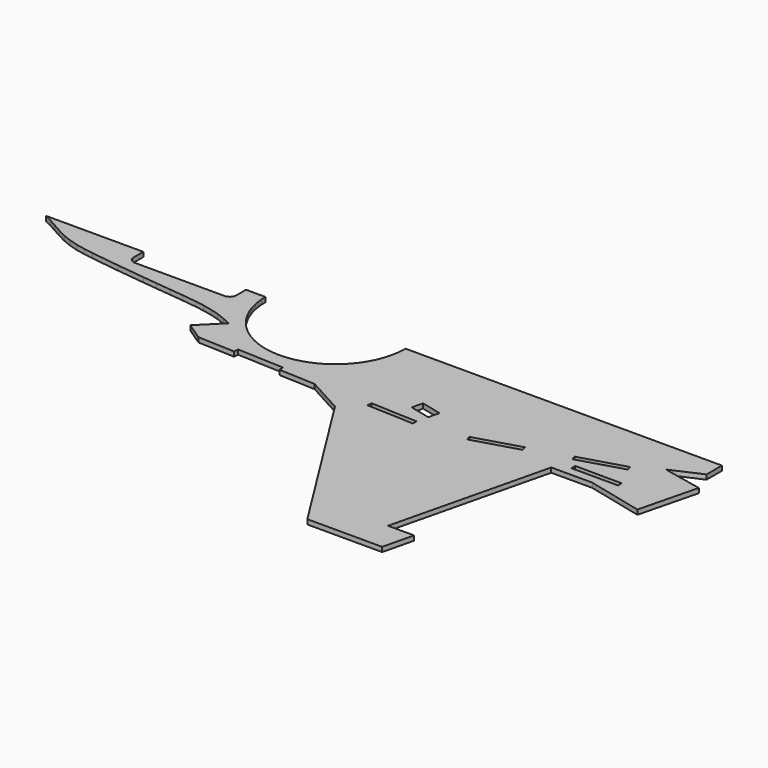
from build123d import *

# Parameters (mm, degrees)
PAD_DEPTH = 5


with BuildPart() as part:
    # Sketch → Pad (new body)
    with BuildSketch(Plane.XY):
        with BuildLine():
            add(Edge.make_bspline(
                [(346.228712, -134.31905), (346.087601, -135.694884)],
                knots=[0, 0, 3.920459, 3.920459], degree=1))
            add(Edge.make_bspline(
                [(346.087601, -135.694884), (345.664268, -137.000161)],
                knots=[0, 0, 3.88973, 3.88973], degree=1))
            add(Edge.make_bspline(
                [(345.664268, -137.000161), (345.029268, -138.199606)],
                knots=[0, 0, 3.847077, 3.847077], degree=1))
            add(Edge.make_bspline(
                [(345.029268, -138.199606), (344.147324, -139.257939)],
                knots=[0, 0, 3.905125, 3.905125], degree=1))
            add(Edge.make_bspline(
                [(344.147324, -139.257939), (343.08899, -140.139884)],
                knots=[0, 0, 3.905125, 3.905125], degree=1))
            add(Edge.make_bspline(
                [(343.08899, -140.139884), (341.889546, -140.774884)],
                knots=[0, 0, 3.847077, 3.847077], degree=1))
            add(Edge.make_bspline(
                [(341.889546, -140.774884), (340.584268, -141.162939)],
                knots=[0, 0, 3.860052, 3.860052], degree=1))
            add(Edge.make_bspline(
                [(340.584268, -141.162939), (339.208435, -141.30405)],
                knots=[0, 0, 3.920459, 3.920459], degree=1))
            add(Edge.make_bspline(
                [(243.217604, -141.30405), (339.208435, -141.30405)],
                knots=[0, 0, 272.1, 272.1], degree=1))
            add(Edge.make_bspline(
                [(243.217604, -141.30405), (241.84177, -141.162939)],
                knots=[0, 0, 3.920459, 3.920459], degree=1))
            add(Edge.make_bspline(
                [(241.84177, -141.162939), (240.536493, -140.774884)],
                knots=[0, 0, 3.860052, 3.860052], degree=1))
            add(Edge.make_bspline(
                [(240.536493, -140.774884), (239.337048, -140.139884)],
                knots=[0, 0, 3.847077, 3.847077], degree=1))
            add(Edge.make_bspline(
                [(239.337048, -140.139884), (238.278715, -139.257939)],
                knots=[0, 0, 3.905125, 3.905125], degree=1))
            add(Edge.make_bspline(
                [(238.278715, -139.257939), (237.39677, -138.199606)],
                knots=[0, 0, 3.905125, 3.905125], degree=1))
            add(Edge.make_bspline(
                [(237.39677, -138.199606), (236.76177, -137.000161)],
                knots=[0, 0, 3.847077, 3.847077], degree=1))
            add(Edge.make_bspline(
                [(236.76177, -137.000161), (236.338437, -135.694884)],
                knots=[0, 0, 3.88973, 3.88973], degree=1))
            add(Edge.make_bspline(
                [(236.338437, -135.694884), (236.197326, -134.31905)],
                knots=[0, 0, 3.920459, 3.920459], degree=1))
            add(Edge.make_bspline(
                [(236.197326, -121.301551), (236.197326, -134.31905)],
                knots=[0, 0, 36.9, 36.9], degree=1))
            add(Edge.make_bspline(
                [(132.057328, -121.301551), (236.197326, -121.301551)],
                knots=[0, 0, 295.2, 295.2], degree=1))
            add(Edge.make_bspline(
                [(132.057328, -121.301551), (140.735661, -125.711273)],
                knots=[0, 0, 27.593659, 27.593659], degree=1))
            add(Edge.make_bspline(
                [(140.735661, -125.711273), (149.272883, -130.544328)],
                knots=[0, 0, 27.808812, 27.808812], degree=1))
            add(Edge.make_bspline(
                [(149.272883, -130.544328), (157.880661, -135.377384)],
                knots=[0, 0, 27.983031, 27.983031], degree=1))
            add(Edge.make_bspline(
                [(157.880661, -135.377384), (166.62955, -139.787106)],
                knots=[0, 0, 27.772108, 27.772108], degree=1))
            add(Edge.make_bspline(
                [(166.62955, -139.787106), (175.660661, -143.385439)],
                knots=[0, 0, 27.557213, 27.557213], degree=1))
            add(Edge.make_bspline(
                [(175.660661, -143.385439), (185.044549, -146.101828)],
                knots=[0, 0, 27.692057, 27.692057], degree=1))
            add(Edge.make_bspline(
                [(185.044549, -146.101828), (194.640105, -148.077383)],
                knots=[0, 0, 27.770488, 27.770488], degree=1))
            add(Edge.make_bspline(
                [(194.640105, -148.077383), (204.376771, -149.629606)],
                knots=[0, 0, 27.948524, 27.948524], degree=1))
            add(Edge.make_bspline(
                [(204.376771, -149.629606), (234.962604, -153.651272)],
                knots=[0, 0, 87.446269, 87.446269], degree=1))
            add(Edge.make_bspline(
                [(234.962604, -153.651272), (265.442603, -157.249605)],
                knots=[0, 0, 87, 87], degree=1))
            add(Edge.make_bspline(
                [(265.442603, -157.249605), (280.682603, -158.907661)],
                knots=[0, 0, 43.454919, 43.454919], degree=1))
            add(Edge.make_bspline(
                [(280.682603, -158.907661), (295.993158, -160.530439)],
                knots=[0, 0, 43.643098, 43.643098], degree=1))
            add(Edge.make_bspline(
                [(295.993158, -160.530439), (311.338991, -162.153216)],
                knots=[0, 0, 43.742542, 43.742542], degree=1))
            add(Edge.make_bspline(
                [(311.338991, -162.153216), (326.614268, -164.058216)],
                knots=[0, 0, 43.635421, 43.635421], degree=1))
            add(Edge.make_bspline(
                [(326.614268, -164.058216), (336.139268, -165.645716)],
                knots=[0, 0, 27.372431, 27.372431], degree=1))
            add(Edge.make_bspline(
                [(336.139268, -165.645716), (345.558435, -167.65655)],
                knots=[0, 0, 27.301648, 27.301648], degree=1))
            add(Edge.make_bspline(
                [(345.558435, -167.65655), (354.83649, -170.302383)],
                knots=[0, 0, 27.348492, 27.348492], degree=1))
            add(Edge.make_bspline(
                [(354.83649, -170.302383), (363.867601, -173.68905)],
                knots=[0, 0, 27.340812, 27.340812], degree=1))
            add(Edge.make_bspline(
                [(363.867601, -173.68905), (372.722323, -177.922383)],
                knots=[0, 0, 27.821035, 27.821035], degree=1))
            add(Edge.make_bspline(
                [(372.722323, -177.922383), (350.038712, -200.605993)],
                knots=[0, 0, 90.933932, 90.933932], degree=1))
            add(Edge.make_bspline(
                [(350.038712, -200.605993), (368.735934, -213.20016)],
                knots=[0, 0, 63.902191, 63.902191], degree=1))
            add(Edge.make_bspline(
                [(368.735934, -213.20016), (408.3176, -214.893493)],
                knots=[0, 0, 112.302627, 112.302627], degree=1))
            add(Edge.make_bspline(
                [(408.529267, -209.884049), (408.3176, -214.893493)],
                knots=[0, 0, 14.21267, 14.21267], degree=1))
            add(Edge.make_bspline(
                [(458.482599, -212.035993), (408.529267, -209.884049)],
                knots=[0, 0, 141.73133, 141.73133], degree=1))
            add(Edge.make_bspline(
                [(458.482599, -217.01016), (458.482599, -212.035993)],
                knots=[0, 0, 14.1, 14.1], degree=1))
            add(Edge.make_bspline(
                [(458.482599, -217.01016), (497.605654, -218.703493)],
                knots=[0, 0, 111.003829, 111.003829], degree=1))
            add(Edge.make_bspline(
                [(497.605654, -218.703493), (536.411208, -239.905437)],
                knots=[0, 0, 125.347557, 125.347557], degree=1))
            add(Edge.make_bspline(
                [(536.411208, -239.905437), (645.948706, -413.860155)],
                knots=[0, 0, 582.715934, 582.715934], degree=1))
            add(Edge.make_bspline(
                [(645.948706, -413.860155), (726.099815, -413.860155)],
                knots=[0, 0, 227.2, 227.2], degree=1))
            add(Edge.make_bspline(
                [(726.099815, -413.860155), (734.072593, -380.981267)],
                knots=[0, 0, 95.900991, 95.900991], degree=1))
            add(Edge.make_bspline(
                [(706.062038, -380.981267), (734.072593, -380.981267)],
                knots=[0, 0, 79.4, 79.4], degree=1))
            add(Edge.make_bspline(
                [(746.737315, -213.20016), (706.062038, -380.981267)],
                knots=[0, 0, 489.376593, 489.376593], degree=1))
            add(Edge.make_bspline(
                [(746.737315, -213.20016), (790.728703, -213.20016)],
                knots=[0, 0, 124.7, 124.7], degree=1))
            add(Edge.make_bspline(
                [(790.728703, -213.20016), (850.630368, -227.699326)],
                knots=[0, 0, 174.70332, 174.70332], degree=1))
            add(Edge.make_bspline(
                [(850.630368, -227.699326), (866.293701, -165.081272)],
                knots=[0, 0, 182.968877, 182.968877], degree=1))
            add(Edge.make_bspline(
                [(866.293701, -165.081272), (824.030924, -156.191272)],
                knots=[0, 0, 122.42173, 122.42173], degree=1))
            add(Edge.make_bspline(
                [(824.030924, -156.191272), (856.063146, -141.903772)],
                knots=[0, 0, 99.422784, 99.422784], degree=1))
            add(Edge.make_bspline(
                [(856.063146, -141.903772), (856.063146, -121.301551)],
                knots=[0, 0, 58.4, 58.4], degree=1))
            add(Edge.make_bspline(
                [(517.078986, -121.301551), (856.063146, -121.301551)],
                knots=[0, 0, 960.9, 960.9], degree=1))
            add(Edge.make_bspline(
                [(516.902598, -126.557939), (517.078986, -121.301551)],
                knots=[0, 0, 14.908387, 14.908387], degree=1))
            add(Edge.make_bspline(
                [(516.338153, -131.743773), (516.902598, -126.557939)],
                knots=[0, 0, 14.786818, 14.786818], degree=1))
            add(Edge.make_bspline(
                [(515.420931, -136.894328), (516.338153, -131.743773)],
                knots=[0, 0, 14.8297, 14.8297], degree=1))
            add(Edge.make_bspline(
                [(514.150931, -141.974328), (515.420931, -136.894328)],
                knots=[0, 0, 14.84318, 14.84318], degree=1))
            add(Edge.make_bspline(
                [(512.563431, -146.948495), (514.150931, -141.974328)],
                knots=[0, 0, 14.800676, 14.800676], degree=1))
            add(Edge.make_bspline(
                [(510.587875, -151.816828), (512.563431, -146.948495)],
                knots=[0, 0, 14.892951, 14.892951], degree=1))
            add(Edge.make_bspline(
                [(508.29482, -156.508772), (510.587875, -151.816828)],
                knots=[0, 0, 14.803378, 14.803378], degree=1))
            add(Edge.make_bspline(
                [(505.684264, -161.059605), (508.29482, -156.508772)],
                knots=[0, 0, 14.871785, 14.871785], degree=1))
            add(Edge.make_bspline(
                [(502.756209, -165.398772), (505.684264, -161.059605)],
                knots=[0, 0, 14.838464, 14.838464], degree=1))
            add(Edge.make_bspline(
                [(499.510653, -169.526272), (502.756209, -165.398772)],
                knots=[0, 0, 14.883884, 14.883884], degree=1))
            add(Edge.make_bspline(
                [(496.018154, -173.406827), (499.510653, -169.526272)],
                knots=[0, 0, 14.798986, 14.798986], degree=1))
            add(Edge.make_bspline(
                [(492.243431, -177.040438), (496.018154, -173.406827)],
                knots=[0, 0, 14.851936, 14.851936], degree=1))
            add(Edge.make_bspline(
                [(488.257043, -180.427105), (492.243431, -177.040438)],
                knots=[0, 0, 14.82734, 14.82734], degree=1))
            add(Edge.make_bspline(
                [(484.023709, -183.496272), (488.257043, -180.427105)],
                knots=[0, 0, 14.821943, 14.821943], degree=1))
            add(Edge.make_bspline(
                [(479.578709, -186.283216), (484.023709, -183.496272)],
                knots=[0, 0, 14.871785, 14.871785], degree=1))
            add(Edge.make_bspline(
                [(474.957321, -188.717383), (479.578709, -186.283216)],
                knots=[0, 0, 14.80608, 14.80608], degree=1))
            add(Edge.make_bspline(
                [(470.159543, -190.869327), (474.957321, -188.717383)],
                knots=[0, 0, 14.905368, 14.905368], degree=1))
            add(Edge.make_bspline(
                [(465.255932, -192.633216), (470.159543, -190.869327)],
                knots=[0, 0, 14.771933, 14.771933], degree=1))
            add(Edge.make_bspline(
                [(460.21121, -194.079605), (465.255932, -192.633216)],
                knots=[0, 0, 14.876155, 14.876155], degree=1))
            add(Edge.make_bspline(
                [(455.095932, -195.173216), (460.21121, -194.079605)],
                knots=[0, 0, 14.827677, 14.827677], degree=1))
            add(Edge.make_bspline(
                [(449.910099, -195.914049), (455.095932, -195.173216)],
                knots=[0, 0, 14.849242, 14.849242], degree=1))
            add(Edge.make_bspline(
                [(444.688988, -196.266827), (449.910099, -195.914049)],
                knots=[0, 0, 14.833745, 14.833745], degree=1))
            add(Edge.make_bspline(
                [(439.467877, -196.266827), (444.688988, -196.266827)],
                knots=[0, 0, 14.8, 14.8], degree=1))
            add(Edge.make_bspline(
                [(434.246766, -195.914049), (439.467877, -196.266827)],
                knots=[0, 0, 14.833745, 14.833745], degree=1))
            add(Edge.make_bspline(
                [(429.060933, -195.173216), (434.246766, -195.914049)],
                knots=[0, 0, 14.849242, 14.849242], degree=1))
            add(Edge.make_bspline(
                [(423.945655, -194.079605), (429.060933, -195.173216)],
                knots=[0, 0, 14.827677, 14.827677], degree=1))
            add(Edge.make_bspline(
                [(418.900933, -192.633216), (423.945655, -194.079605)],
                knots=[0, 0, 14.876155, 14.876155], degree=1))
            add(Edge.make_bspline(
                [(413.962044, -190.869327), (418.900933, -192.633216)],
                knots=[0, 0, 14.866069, 14.866069], degree=1))
            add(Edge.make_bspline(
                [(409.199544, -188.717383), (413.962044, -190.869327)],
                knots=[0, 0, 14.814182, 14.814182], degree=1))
            add(Edge.make_bspline(
                [(404.578156, -186.283216), (409.199544, -188.717383)],
                knots=[0, 0, 14.80608, 14.80608], degree=1))
            add(Edge.make_bspline(
                [(400.133156, -183.496272), (404.578156, -186.283216)],
                knots=[0, 0, 14.871785, 14.871785], degree=1))
            add(Edge.make_bspline(
                [(395.899822, -180.427105), (400.133156, -183.496272)],
                knots=[0, 0, 14.821943, 14.821943], degree=1))
            add(Edge.make_bspline(
                [(391.878156, -177.040438), (395.899822, -180.427105)],
                knots=[0, 0, 14.903691, 14.903691], degree=1))
            add(Edge.make_bspline(
                [(388.138711, -173.406827), (391.878156, -177.040438)],
                knots=[0, 0, 14.780054, 14.780054], degree=1))
            add(Edge.make_bspline(
                [(384.610934, -169.526272), (388.138711, -173.406827)],
                knots=[0, 0, 14.866069, 14.866069], degree=1))
            add(Edge.make_bspline(
                [(381.400656, -165.398772), (384.610934, -169.526272)],
                knots=[0, 0, 14.822281, 14.822281], degree=1))
            add(Edge.make_bspline(
                [(378.472601, -161.059605), (381.400656, -165.398772)],
                knots=[0, 0, 14.838464, 14.838464], degree=1))
            add(Edge.make_bspline(
                [(375.862045, -156.508772), (378.472601, -161.059605)],
                knots=[0, 0, 14.871785, 14.871785], degree=1))
            add(Edge.make_bspline(
                [(373.56899, -151.816828), (375.862045, -156.508772)],
                knots=[0, 0, 14.803378, 14.803378], degree=1))
            add(Edge.make_bspline(
                [(371.593434, -146.948495), (373.56899, -151.816828)],
                knots=[0, 0, 14.892951, 14.892951], degree=1))
            add(Edge.make_bspline(
                [(369.970656, -141.974328), (371.593434, -146.948495)],
                knots=[0, 0, 14.831386, 14.831386], degree=1))
            add(Edge.make_bspline(
                [(368.700656, -136.894328), (369.970656, -141.974328)],
                knots=[0, 0, 14.84318, 14.84318], degree=1))
            add(Edge.make_bspline(
                [(367.818712, -131.743773), (368.700656, -136.894328)],
                knots=[0, 0, 14.812495, 14.812495], degree=1))
            add(Edge.make_bspline(
                [(367.254267, -126.557939), (367.818712, -131.743773)],
                knots=[0, 0, 14.786818, 14.786818], degree=1))
            add(Edge.make_bspline(
                [(367.077879, -121.301551), (367.254267, -126.557939)],
                knots=[0, 0, 14.908387, 14.908387], degree=1))
            add(Edge.make_bspline(
                [(346.228712, -121.301551), (367.077879, -121.301551)],
                knots=[0, 0, 59.1, 59.1], degree=1))
            add(Edge.make_bspline(
                [(346.228712, -134.31905), (346.228712, -121.301551)],
                knots=[0, 0, 36.9, 36.9], degree=1))
        make_face()
        with BuildLine():
            add(Edge.make_bspline(
                [(590.421485, -189.422938), (612.293707, -194.714605)],
                knots=[0, 0, 63.788714, 63.788714], degree=1))
            add(Edge.make_bspline(
                [(612.293707, -194.714605), (609.471484, -206.391549)],
                knots=[0, 0, 34.053047, 34.053047], degree=1))
            add(Edge.make_bspline(
                [(587.599263, -201.099882), (609.471484, -206.391549)],
                knots=[0, 0, 63.788714, 63.788714], degree=1))
            add(Edge.make_bspline(
                [(587.599263, -201.099882), (590.421485, -189.422938)],
                knots=[0, 0, 34.053047, 34.053047], degree=1))
        make_face(mode=Mode.SUBTRACT)
        with BuildLine():
            add(Edge.make_bspline(
                [(751.182315, -190.445994), (799.124814, -176.193772)],
                knots=[0, 0, 141.77789, 141.77789], degree=1))
            add(Edge.make_bspline(
                [(799.124814, -176.193772), (797.678425, -171.395994)],
                knots=[0, 0, 14.204577, 14.204577], degree=1))
            add(Edge.make_bspline(
                [(797.678425, -171.395994), (749.771204, -185.648216)],
                knots=[0, 0, 141.682038, 141.682038], degree=1))
            add(Edge.make_bspline(
                [(749.771204, -185.648216), (751.182315, -190.445994)],
                knots=[0, 0, 14.176036, 14.176036], degree=1))
        make_face(mode=Mode.SUBTRACT)
        with BuildLine():
            add(Edge.make_bspline(
                [(660.130372, -217.504049), (708.072871, -203.251827)],
                knots=[0, 0, 141.77789, 141.77789], degree=1))
            add(Edge.make_bspline(
                [(708.072871, -203.251827), (706.626482, -198.454049)],
                knots=[0, 0, 14.204577, 14.204577], degree=1))
            add(Edge.make_bspline(
                [(706.626482, -198.454049), (658.719261, -212.706271)],
                knots=[0, 0, 141.682038, 141.682038], degree=1))
            add(Edge.make_bspline(
                [(658.719261, -212.706271), (660.130372, -217.504049)],
                knots=[0, 0, 14.176036, 14.176036], degree=1))
        make_face(mode=Mode.SUBTRACT)
        with BuildLine():
            add(Edge.make_bspline(
                [(556.484263, -221.243493), (606.437596, -223.36016)],
                knots=[0, 0, 141.727062, 141.727062], degree=1))
            add(Edge.make_bspline(
                [(606.437596, -223.36016), (606.649262, -218.385993)],
                knots=[0, 0, 14.11276, 14.11276], degree=1))
            add(Edge.make_bspline(
                [(606.649262, -218.385993), (556.69593, -216.234049)],
                knots=[0, 0, 141.73133, 141.73133], degree=1))
            add(Edge.make_bspline(
                [(556.69593, -216.234049), (556.484263, -221.243493)],
                knots=[0, 0, 14.21267, 14.21267], degree=1))
        make_face(mode=Mode.SUBTRACT)
        with BuildLine():
            add(Edge.make_bspline(
                [(760.672037, -203.780993), (810.660647, -203.780993)],
                knots=[0, 0, 141.7, 141.7], degree=1))
            add(Edge.make_bspline(
                [(810.660647, -203.780993), (810.660647, -198.771549)],
                knots=[0, 0, 14.2, 14.2], degree=1))
            add(Edge.make_bspline(
                [(810.660647, -198.771549), (760.672037, -198.489327)],
                knots=[0, 0, 141.702258, 141.702258], degree=1))
            add(Edge.make_bspline(
                [(760.672037, -198.489327), (760.672037, -203.780993)],
                knots=[0, 0, 15, 15], degree=1))
        make_face(mode=Mode.SUBTRACT)
    extrude(amount=PAD_DEPTH)


solid = part.part
